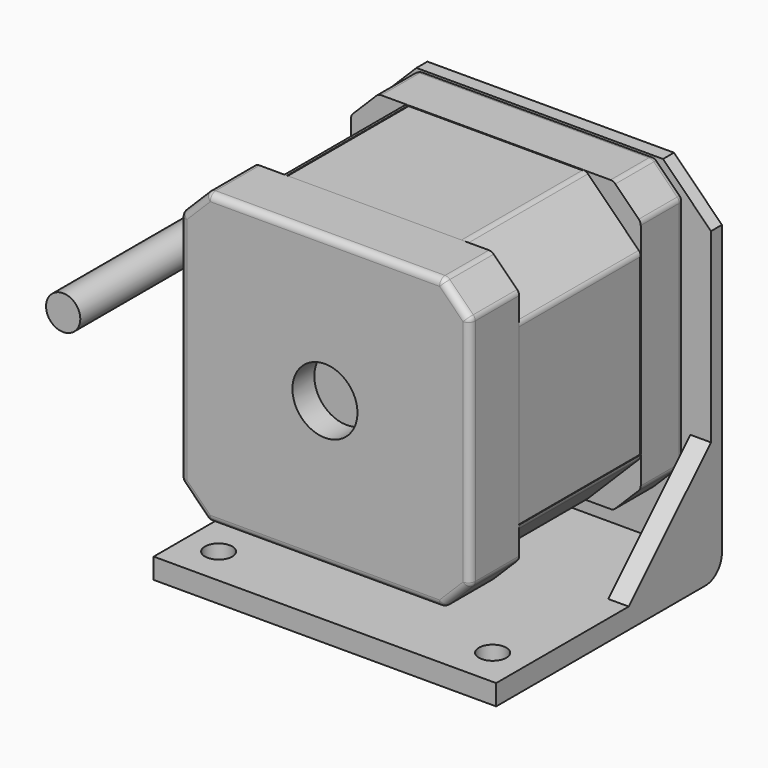
from build123d import *

# Parameters (mm, degrees)
F0_W      = 42.3
F0_H      = 42.3
F1_DEPTH  = 9
F3_SIZE   = 4
F4_R      = 1
F5_DEPTH  = 22.2
F6_W      = 42.3
F6_H      = 42.3
F7_DEPTH  = 8
F8_SIZE   = 4
F9_R      = 1
F10_W     = 22.2
F10_H     = 25.4715728753
F11_DEPTH = 0.1
F12_W     = 25.4715728753
F12_H     = 22.2
F13_DEPTH = 0.1
F14_W     = 22.2
F14_H     = 25.4715728753
F15_DEPTH = 0.1
F16_W     = 25.4715728753
F16_H     = 22.2
F17_DEPTH = 0.1
F18_R     = 11
F18_R_2   = 4.5
F19_DEPTH = 2
F20_DEPTH = 4
F21_R     = 2.5
F22_DEPTH = 5
F23_R     = 1.5
F24_DEPTH = 4
F25_R     = 2.5
F26_DEPTH = 34
F27_W     = 50
F27_H     = 52.15
F27_R     = 1.5
F27_R_2   = 11
F28_DEPTH = 2
F29_W     = 50
F29_H     = 3
F30_DEPTH = 39.2
F31_SIZE  = 7
F33_DEPTH = 3
F35_DEPTH = 3
F36_R     = 2
F37_DEPTH = 5
F38_R     = 3
F39_R     = 4.75
F40_DEPTH = 4
F41_R     = 2.5
F42_DEPTH = 28


with BuildPart() as f1:
    # F0 (on Front) → F1 (new body)
    with BuildSketch(Plane.XZ):
        Rectangle(F0_W, F0_H)
    extrude(amount=F1_DEPTH)

    # F3
    f3_edges = [f1.edges().sort_by_distance(p)[0] for p in [
        (21.15, -4.5, 21.15),
        (-21.15, -4.5, 21.15),
        (21.15, -4.5, -21.15),
        (-21.15, -4.5, -21.15),
    ]]
    chamfer(f3_edges, length=F3_SIZE)

    # F4
    f4_edges = [f1.edges().sort_by_distance(p)[0] for p in [
        (17.15, -4.5, 21.15),
        (21.15, -4.5, 17.15),
        (-17.15, -4.5, 21.15),
        (21.15, -4.5, -17.15),
        (17.15, -4.5, -21.15),
        (-21.15, -4.5, 17.15),
        (-21.15, -4.5, -17.15),
        (-17.15, -4.5, -21.15),
    ]]
    fillet(f4_edges, radius=F4_R)

    # F2 (on face) → F5 (join)
    with BuildSketch(Plane(origin=(0, 0, 0), x_dir=(-1, 0, 0), z_dir=(0, 1, 0))):
        Polygon((13.15, 21.15), (-13.15, 21.15), (-21.15, 13.15), (-21.15, -13.15), (-13.15, -21.15), (13.15, -21.15), (21.15, -13.15), (21.15, 13.15), align=None)
    extrude(amount=F5_DEPTH)

    # F6 (on face) → F7 (join)
    with BuildSketch(Plane(origin=(0, 22.2, 0), x_dir=(-1, 0, 0), z_dir=(0, 1, 0))):
        Rectangle(F6_W, F6_H)
    extrude(amount=F7_DEPTH)

    # F8
    f8_edges = [f1.edges().sort_by_distance(p)[0] for p in [
        (21.15, 26.2, 21.15),
        (-21.15, 26.2, 21.15),
        (21.15, 26.2, -21.15),
        (-21.15, 26.2, -21.15),
    ]]
    chamfer(f8_edges, length=F8_SIZE)

    # F9
    f9_edges = [f1.edges().sort_by_distance(p)[0] for p in [
        (21.15, -9, 0),
        (21.15, 11.1, 13.15),
        (13.15, 11.1, 21.15),
        (21.15, 26.2, 17.15),
        (17.15, 26.2, 21.15),
        (-17.15, 26.2, 21.15),
        (-13.15, 11.1, 21.15),
        (-21.15, 26.2, 17.15),
        (-21.15, 11.1, 13.15),
        (-21.15, 11.1, -13.15),
        (-21.15, 26.2, -17.15),
        (-17.15, 26.2, -21.15),
        (-13.15, 11.1, -21.15),
        (13.15, 11.1, -21.15),
        (17.15, 26.2, -21.15),
        (21.15, 26.2, -17.15),
        (21.15, 11.1, -13.15),
        (0, 30.2, 21.15),
        (-19.15, 30.2, 19.15),
        (19.15, 30.2, 19.15),
        (-21.15, 30.2, 0),
        (21.15, 30.2, 0),
        (-19.15, 30.2, -19.15),
        (19.15, 30.2, -19.15),
        (0, 30.2, -21.15),
    ]]
    fillet(f9_edges, radius=F9_R)

    # F10 (on face) → F11 (cut)
    with BuildSketch(Plane.YZ.offset(21.15)):
        with Locations((11.1, 0)):
            Rectangle(F10_W, F10_H)
    extrude(amount=-F11_DEPTH, mode=Mode.SUBTRACT)

    # F12 (on face) → F13 (cut)
    with BuildSketch(Plane.XY.offset(21.15)):
        with Locations((0, 11.1)):
            Rectangle(F12_W, F12_H)
    extrude(amount=-F13_DEPTH, mode=Mode.SUBTRACT)

    # F14 (on face) → F15 (cut)
    with BuildSketch(Plane(origin=(-21.15, 0, 0), x_dir=(0, -1, 0), z_dir=(-1, 0, 0))):
        with Locations((-11.1, 0)):
            Rectangle(F14_W, F14_H)
    extrude(amount=-F15_DEPTH, mode=Mode.SUBTRACT)

    # F16 (on face) → F17 (cut)
    with BuildSketch(Plane(origin=(0, 0, -21.15), x_dir=(1, 0, 0), z_dir=(0, 0, -1))):
        with Locations((0, -11.1)):
            Rectangle(F16_W, F16_H)
    extrude(amount=-F17_DEPTH, mode=Mode.SUBTRACT)

    # F18 (on face) → F19 (join)
    with BuildSketch(Plane(origin=(0, 30.2, 0), x_dir=(-1, 0, 0), z_dir=(0, 1, 0))):
        Circle(F18_R)
        Circle(F18_R_2, mode=Mode.SUBTRACT)
    extrude(amount=F19_DEPTH)

    # F20 (cut): a face of the model
    f20_faces = [f1.faces().sort_by_distance(p)[0] for p in [
        (0, 30.2, 0),
    ]]
    extrude(f20_faces, amount=-F20_DEPTH, mode=Mode.SUBTRACT)

    # F21 (on face) → F22 (cut)
    with BuildSketch(Plane(origin=(0, 26.2, 0), x_dir=(-1, 0, 0), z_dir=(0, 1, 0))):
        Circle(F21_R)
    extrude(amount=-F22_DEPTH, mode=Mode.SUBTRACT)

    # F23 (on face) → F24 (cut)
    with BuildSketch(Plane(origin=(0, 30.2, 0), x_dir=(-1, 0, 0), z_dir=(0, 1, 0))):
        with Locations((-16, 16)):
            Circle(F23_R)
        with Locations((16, 16)):
            Circle(F23_R)
        with Locations((-16, -16)):
            Circle(F23_R)
        with Locations((16, -16)):
            Circle(F23_R)
    extrude(amount=-F24_DEPTH, mode=Mode.SUBTRACT)

    # F39 (on face) → F40 (cut)
    with BuildSketch(Plane.XZ.offset(9)):
        Circle(F39_R)
    extrude(amount=-F40_DEPTH, mode=Mode.SUBTRACT)


with BuildPart() as f26:
    # F25 (on face) → F26 (new body)
    with BuildSketch(Plane(origin=(0, 21.2, 0), x_dir=(-1, 0, 0), z_dir=(0, 1, 0))):
        Circle(F25_R)
    extrude(amount=F26_DEPTH)


with BuildPart() as f28:
    # F27 (on face) → F28 (new body)
    with BuildSketch(Plane(origin=(0, 30.2, 0), x_dir=(-1, 0, 0), z_dir=(0, 1, 0))):
        with Locations((0, -5.075)):
            Rectangle(F27_W, F27_H)
        Polygon((-16.7357864376, 20.15), (16.7357864376, 20.15), (20.15, 16.7357864376), (20.15, -16.7357864376), (16.7357864376, -20.15), (-16.7357864376, -20.15), (-20.15, -16.7357864376), (-20.15, 16.7357864376), align=None, mode=Mode.SUBTRACT)
        Polygon((20.15, 16.7357864376), (16.7357864376, 20.15), (-16.7357864376, 20.15), (-20.15, 16.7357864376), (-20.15, -16.7357864376), (-16.7357864376, -20.15), (16.7357864376, -20.15), (20.15, -16.7357864376), align=None)
        with Locations((-16, -16)):
            Circle(F27_R, mode=Mode.SUBTRACT)
        with Locations((16, -16)):
            Circle(F27_R, mode=Mode.SUBTRACT)
        with Locations((-16, 16)):
            Circle(F27_R, mode=Mode.SUBTRACT)
        Circle(F27_R_2, mode=Mode.SUBTRACT)
        with Locations((16, 16)):
            Circle(F27_R, mode=Mode.SUBTRACT)
    extrude(amount=F28_DEPTH)

    # F29 (on face) → F30 (join)
    with BuildSketch(Plane.XZ.offset(-30.2)):
        with Locations((0, -29.65)):
            Rectangle(F29_W, F29_H)
    extrude(amount=F30_DEPTH)

    # F31
    f31_edges = [f28.edges().sort_by_distance(p)[0] for p in [
        (25, 31.2, 21),
        (-25, 31.2, 21),
    ]]
    chamfer(f31_edges, length=F31_SIZE)

    # F32 (on face) → F33 (join)
    with BuildSketch(Plane.YZ.offset(25)):
        Polygon((30.2, -28.15), (30.2, -13.15), (15.2, -28.15), align=None)
    extrude(amount=-F33_DEPTH)

    # F34 (on face) → F35 (join)
    with BuildSketch(Plane(origin=(-25, 0, 0), x_dir=(0, -1, 0), z_dir=(-1, 0, 0))):
        Polygon((-30.2, -28.15), (-20.2, -28.15), (-30.2, -18.15), align=None)
        Polygon((-32.2, -16.15), (-32.2, -31.15), (-17.2, -31.15), (-20.2, -28.15), (-30.2, -28.15), (-30.2, -18.15), align=None)
    extrude(amount=-F35_DEPTH)

    # F36 (on face) → F37 (cut)
    with BuildSketch(Plane(origin=(0, 0, -31.15), x_dir=(1, 0, 0), z_dir=(0, 0, -1))):
        with Locations((-20, 3.4)):
            Circle(F36_R)
        with Locations((-20, -26.6)):
            Circle(F36_R)
        with Locations((20, -26.6)):
            Circle(F36_R)
        with Locations((20, 3.4)):
            Circle(F36_R)
    extrude(amount=-F37_DEPTH, mode=Mode.SUBTRACT)

    # F38
    f38_edges = [f28.edges().sort_by_distance(p)[0] for p in [
        (0, 32.2, -31.15),
    ]]
    fillet(f38_edges, radius=F38_R)


with BuildPart() as f42:
    # F41 (on Front) → F42 (new body)
    with BuildSketch(Plane.XZ):
        with Locations((-45.4169176519, -7.0959334262)):
            Circle(F41_R)
    extrude(amount=-F42_DEPTH)


solid = Compound([f1.part, f26.part, f28.part, f42.part])
